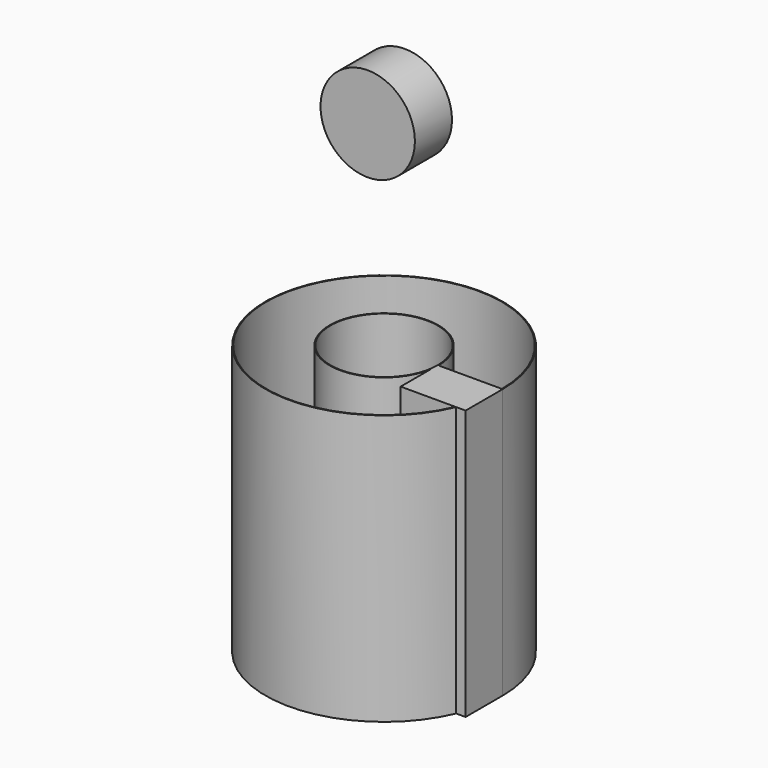
from build123d import *

# Parameters (mm, degrees)
F0_W     = 213.485479
F0_H     = 886.618256
F2_T     = -2.54
F0_R     = 155.054815
F3_DEPTH = 152.4


with BuildPart() as f1:
    # F0 (on Front) → F1 (revolve)
    with BuildSketch(Plane.XZ):
        with Locations((283.195019, 18.5166)):
            Rectangle(F0_W, F0_H)
    revolve(axis=Axis((0, 0, -4.356861), (0, 0, -1)))

    # F2
    f2_openings = [f1.faces().sort_by_distance(p)[0] for p in [
        (-378.908653, 0, 461.825728),
    ]]
    offset(amount=F2_T, openings=f2_openings)

    # F0 (on Front) → F3 (join)
    with BuildSketch(Plane.XZ):
        with Locations((283.195019, 18.5166)):
            Rectangle(F0_W, F0_H)
        with Locations((68.216197, 1186.999917)):
            Circle(F0_R)
    extrude(amount=F3_DEPTH)


solid = f1.part
